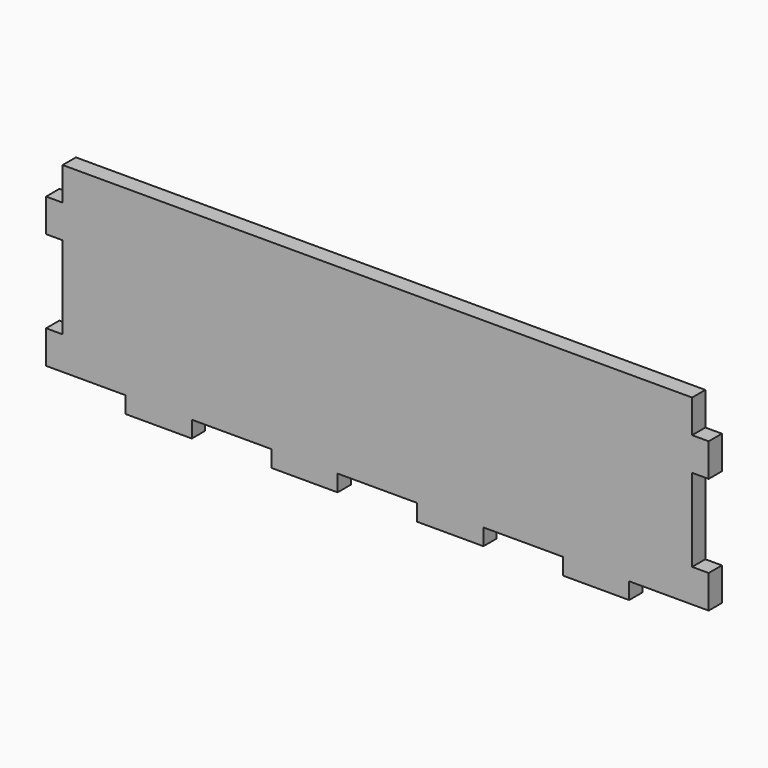
from build123d import *

# Parameters (mm, degrees)
F0_W     = 254
F0_H     = 76.2
F1_DEPTH = 6.35
F2_W     = 6.35
F2_H     = 6.35
F2_H_2   = 12.7
F2_H_3   = 31.75
F3_DEPTH = 6.35
F4_W     = 30.48
F4_H     = 6.35
F5_DEPTH = 6.351


with BuildPart() as f1:
    # F0 (on Front) → F1 (new body)
    with BuildSketch(Plane.XZ):
        with Locations((127, 38.1)):
            Rectangle(F0_W, F0_H)
    extrude(amount=F1_DEPTH)

    # F2 (on face) → F3 (cut, through all)
    with BuildSketch(Plane.XZ.offset(6.35)):
        with Locations((3.175, 3.175)):
            Rectangle(F2_W, F2_H)
        with Locations((3.175, 69.85)):
            Rectangle(F2_W, F2_H_2)
        with Locations((3.175, 34.925)):
            Rectangle(F2_W, F2_H_3)
        with Locations((250.825, 3.175)):
            Rectangle(F2_W, F2_H)
        with Locations((250.825, 34.925)):
            Rectangle(F2_W, F2_H_3)
        with Locations((250.825, 69.85)):
            Rectangle(F2_W, F2_H_2)
    extrude(amount=-F3_DEPTH, mode=Mode.SUBTRACT)

    # F4 (on face) → F5 (cut, through all)
    with BuildSketch(Plane.XZ.offset(6.35)):
        with Locations((15.24, 3.175)):
            Rectangle(F4_W, F4_H)
        with Locations((71.12, 3.175)):
            Rectangle(F4_W, F4_H)
        with Locations((127, 3.175)):
            Rectangle(F4_W, F4_H)
        with Locations((182.88, 3.175)):
            Rectangle(F4_W, F4_H)
        with Locations((238.76, 3.175)):
            Rectangle(F4_W, F4_H)
    extrude(amount=-F5_DEPTH, mode=Mode.SUBTRACT)


solid = f1.part
